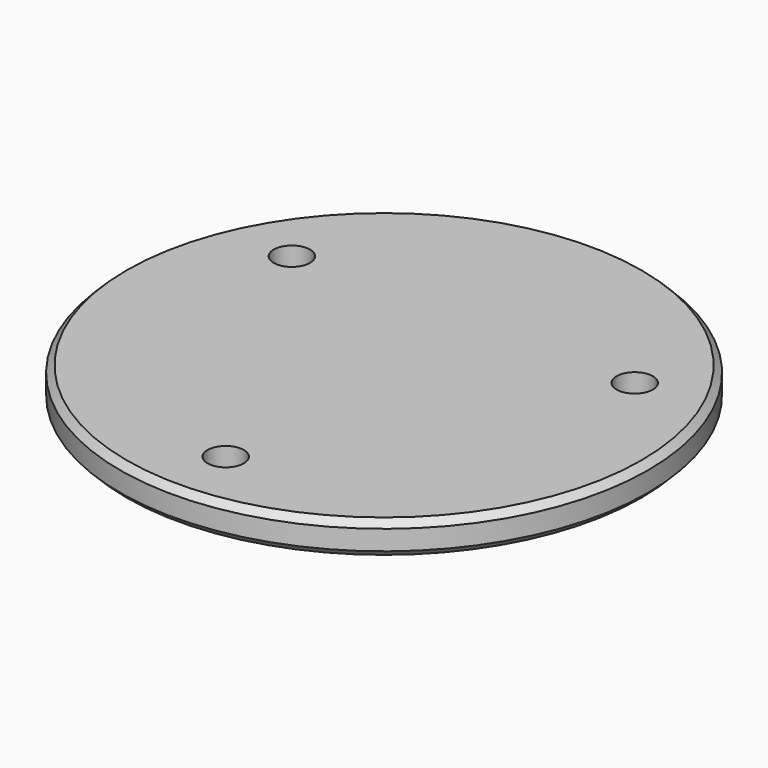
from build123d import *

# Parameters (mm, degrees)
F0_R     = 40
F1_DEPTH = 5
F3_D     = 5.5
F4_SIZE  = 1


with BuildPart() as f1:
    # F0 (on Top) → F1 (new body)
    with BuildSketch(Plane.XY):
        Circle(F0_R)
    extrude(amount=F1_DEPTH)

    # F3 (through all)
    with Locations(Plane(origin=(0, 0, 0), x_dir=(1, 0, 0), z_dir=(0, 0, -1))):
        with Locations((0, 30), (25.980762, -15), (-25.980762, -15)):
            Hole(F3_D / 2)

    # F4
    f4_edges = [f1.edges().sort_by_distance(p)[0] for p in [
        (-40, 0, 5),
        (-40, 0, 0),
    ]]
    chamfer(f4_edges, length=F4_SIZE)


solid = f1.part
